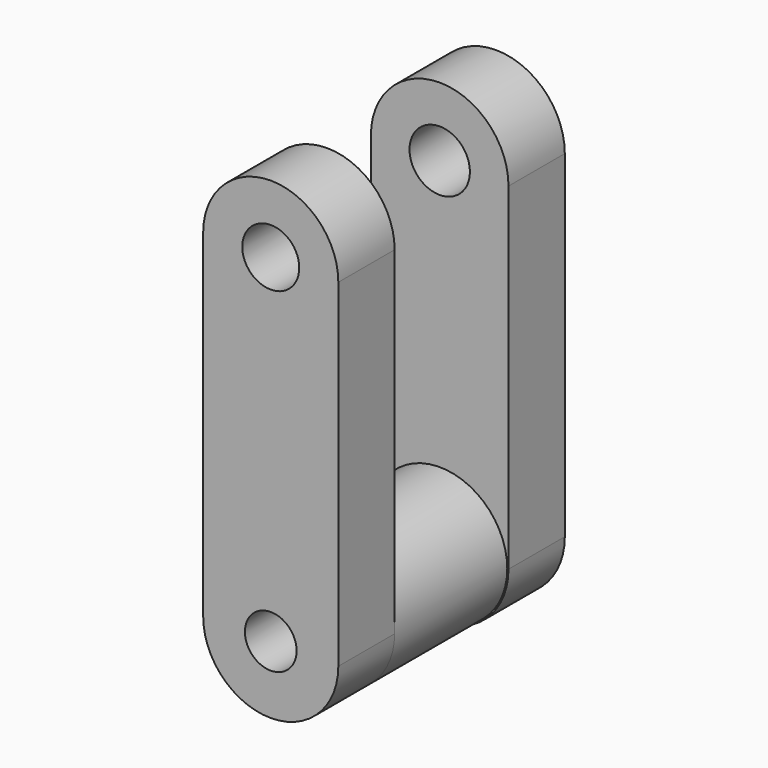
from build123d import *

# Parameters (mm, degrees)
F0_R     = 12.189783
F0_R_2   = 8.77531
F1_DEPTH = 25.4
F2_R     = 5.126436
F2_R_2   = 5.449077
F3_DEPTH = 12.7
F4_R     = 4.664571
F4_R_2   = 5.13789
F5_DEPTH = 12.7


with BuildPart() as f1:
    # F0 (on Front) → F1 (new body)
    with BuildSketch(Plane.XZ):
        Circle(F0_R)
        Circle(F0_R_2, mode=Mode.SUBTRACT)
    extrude(amount=F1_DEPTH)

    # F2 (on Front) → F3 (join)
    with BuildSketch(Plane.XZ):
        with BuildLine():
            Line((-12.411189, 60.850978), (-12.411189, 0))
            ThreePointArc((-12.411189, 0), (0, -12.411189), (12.411188, 0))
            Line((12.411188, 0), (12.411188, 60.850978))
            ThreePointArc((12.411188, 60.850978), (0, 73.262167), (-12.411189, 60.850978))
        make_face()
        Circle(F2_R, mode=Mode.SUBTRACT)
        with Locations((0, 60.850978)):
            Circle(F2_R_2, mode=Mode.SUBTRACT)
    extrude(amount=-F3_DEPTH)

    # F4 (on face) → F5 (join)
    with BuildSketch(Plane.XZ.offset(25.4)):
        with BuildLine():
            Line((-12.189783, 60.994357), (-12.189783, 0))
            ThreePointArc((-12.189783, 0), (0, -12.189783), (12.189783, 0))
            Line((12.189783, 0), (12.189783, 60.994357))
            ThreePointArc((12.189783, 60.994357), (0, 73.18414), (-12.189783, 60.994357))
        make_face()
        Circle(F4_R, mode=Mode.SUBTRACT)
        with Locations((0, 60.994357)):
            Circle(F4_R_2, mode=Mode.SUBTRACT)
    extrude(amount=F5_DEPTH)


solid = f1.part
